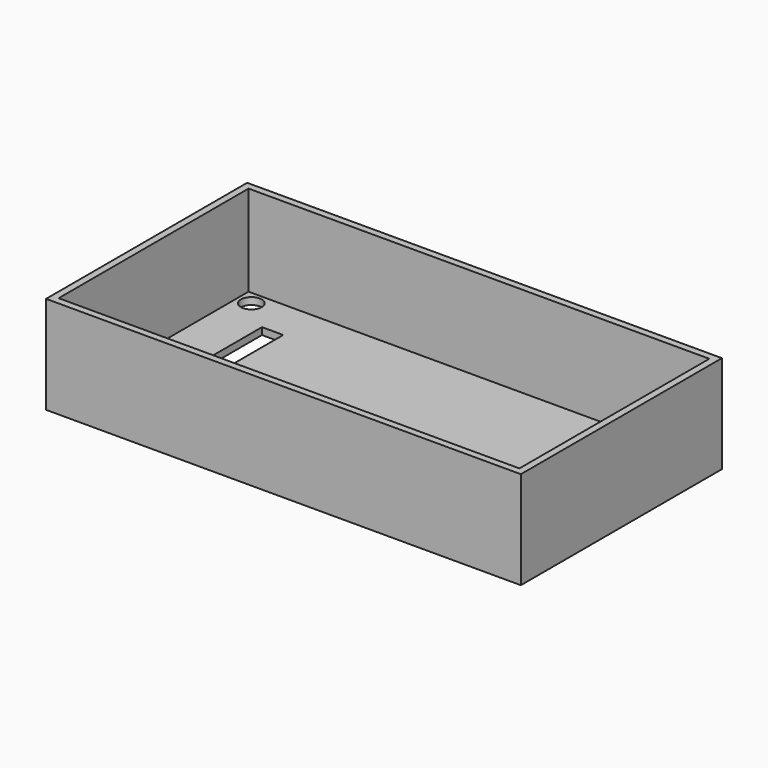
from build123d import *

# Parameters (mm, degrees)
SKETCH069_W     = 68
SKETCH069_H     = 36
SKETCH069_W_2   = 3.04
SKETCH069_H_2   = 13.335
PAD048_DEPTH    = 1
SKETCH070_W     = 68
SKETCH070_H     = 36
SKETCH070_W_2   = 66
SKETCH070_H_2   = 34
PAD049_DEPTH    = 13
SKETCH073_R     = 1.5
POCKET013_DEPTH = 1.001


with BuildPart() as part:
    # Sketch069 → Pad048 (new body)
    with BuildSketch(Plane.XY):
        Rectangle(SKETCH069_W, SKETCH069_H)
        with Locations((-24.94, 4.5625)):
            Rectangle(SKETCH069_W_2, SKETCH069_H_2, mode=Mode.SUBTRACT)
    extrude(amount=PAD048_DEPTH)

    # Sketch070 (on Face10 of Pad048) → Pad049 (join)
    with BuildSketch(Plane.XY.offset(1)):
        Rectangle(SKETCH070_W, SKETCH070_H)
        Rectangle(SKETCH070_W_2, SKETCH070_H_2, mode=Mode.SUBTRACT)
    extrude(amount=PAD049_DEPTH)

    # Sketch073 (on Face15 of Pad049) → Pocket013 (cut, through all)
    with BuildSketch(Plane.XY.offset(1)):
        with Locations((-31, 15)):
            Circle(SKETCH073_R)
        with Locations((31, 15)):
            Circle(SKETCH073_R)
        with Locations((31, -15)):
            Circle(SKETCH073_R)
        with Locations((-31, -15)):
            Circle(SKETCH073_R)
    extrude(amount=-POCKET013_DEPTH, mode=Mode.SUBTRACT)


solid = part.part
